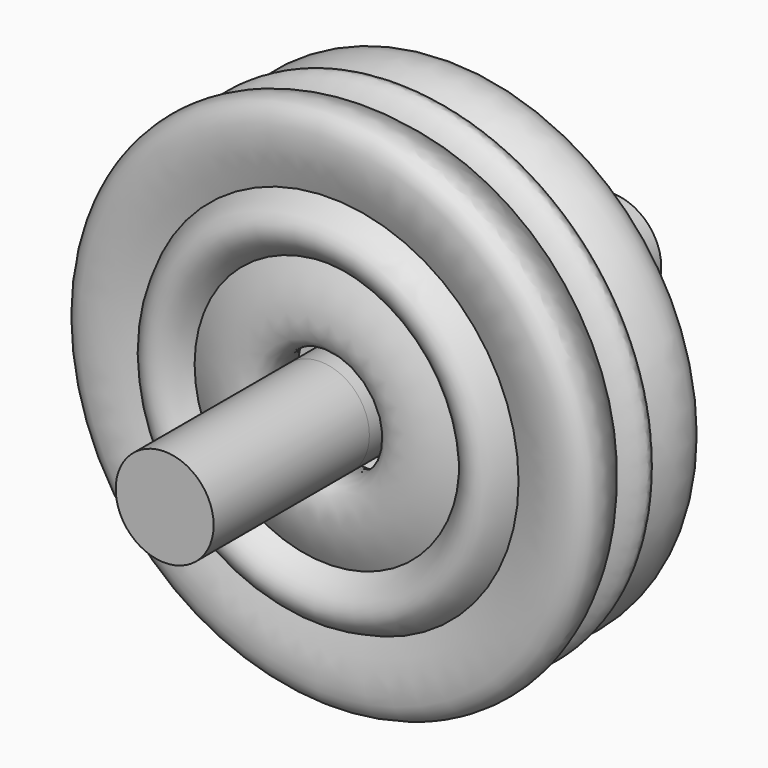
from build123d import *

# Parameters (mm, degrees)
F2_R     = 14.6925420484
F3_DEPTH = 58.42
F4_DEPTH = 109.474


with BuildPart() as f1:
    # F0 (on Top) → F1 (revolve)
    with BuildSketch(Plane.XY):
        with BuildLine():
            add(Edge.make_bspline(
                [(-71.8712651027, 31.8614490307), (-83.3065836709, 27.3728179466), (-72.0430607464, 21.1416296691)],
                knots=[2.5770953689, 2.5770953689, 2.5770953689, 3.7479627287, 3.7479627287, 3.7479627287], degree=2, weights=[1, 0.8334725297, 1]))
            add(Edge.make_bspline(
                [(-72.0430607464, 21.1416296691), (-100.5356487089, -11.8278282354), (-56.5454501701, 3.630881721)],
                knots=[2.2462588075, 2.2462588075, 2.2462588075, 4.1558846346, 4.1558846346, 4.1558846346], degree=2, weights=[1, 0.577761469, 1]))
            add(Edge.make_bspline(
                [(-56.5454501701, 3.630881721), (-49.7680659422, -13.9742831427), (-39.7717999025, 2.5237378227)],
                knots=[2.4286020288, 2.4286020288, 2.4286020288, 3.8850967672, 3.8850967672, 3.8850967672], degree=2, weights=[1, 0.7463420336, 1]))
            add(Edge.make_bspline(
                [(-39.7717999025, 2.5237378227), (-0.3442710462, -17.3316374866), (-20.398334335, 17.1769388044)],
                knots=[2.1156394125, 2.1156394125, 2.1156394125, 3.9900733101, 3.9900733101, 3.9900733101], degree=2, weights=[1, 0.5920332136, 1]))
            add(Edge.make_bspline(
                [(-20.398334335, 17.1769388044), (-8.9630157668, 21.6655698884), (-20.2265386914, 27.8967581659)],
                knots=[5.7186880225, 5.7186880225, 5.7186880225, 6.8895553823, 6.8895553823, 6.8895553823], degree=2, weights=[1, 0.8334725297, 1]))
            add(Edge.make_bspline(
                [(-20.2265386914, 27.8967581659), (8.2660492712, 60.8662160704), (-35.7241492676, 45.407506114)],
                knots=[5.3878514611, 5.3878514611, 5.3878514611, 7.2974772882, 7.2974772882, 7.2974772882], degree=2, weights=[1, 0.577761469, 1]))
            add(Edge.make_bspline(
                [(-35.7241492676, 45.407506114), (-42.5015334955, 63.0126709777), (-52.4977995352, 46.5146500123)],
                knots=[5.5701946824, 5.5701946824, 5.5701946824, 7.0266894208, 7.0266894208, 7.0266894208], degree=2, weights=[1, 0.7463420336, 1]))
            add(Edge.make_bspline(
                [(-52.4977995352, 46.5146500123), (-91.9253283915, 66.3700253217), (-71.8712651027, 31.8614490307)],
                knots=[5.2572320661, 5.2572320661, 5.2572320661, 7.1316659636, 7.1316659636, 7.1316659636], degree=2, weights=[1, 0.5920332136, 1]))
        make_face()
        with BuildLine():
            add(Edge.make_bspline(
                [(-35.4513308157, 14.5995784713), (-35.2474924167, 14.6077239265), (-35.0447237095, 14.6168431962)],
                knots=[5.0903981544, 5.0903981544, 5.0903981544, 5.1044162053, 5.1044162053, 5.1044162053], degree=2, weights=[1, 0.9999754369, 1]))
            add(Edge.make_bspline(
                [(-35.4513308157, 14.5995784713), (-35.2091586629, 14.7664512216), (-34.9683159674, 14.9345107081)],
                knots=[4.809950203, 4.809950203, 4.809950203, 4.825550509, 4.825550509, 4.825550509], degree=2, weights=[1, 0.999969579, 1]))
            add(Edge.make_bspline(
                [(-35.0447237095, 14.6168431962), (-35.0061358334, 14.7753407313), (-34.9683159674, 14.9345107081)],
                knots=[4.4048466978, 4.4048466978, 4.4048466978, 4.4165951178, 4.4165951178, 4.4165951178], degree=2, weights=[1, 0.9999827469, 1]))
        make_face(mode=Mode.SUBTRACT)
        with BuildLine():
            add(Edge.make_bspline(
                [(-32.6609249123, 32.2514424814), (-32.9915197308, 32.5672364869), (-33.3262307397, 32.8805100197)],
                knots=[4.5693262257, 4.5693262257, 4.5693262257, 4.5943539975, 4.5943539975, 4.5943539975], degree=2, weights=[1, 0.9999217024, 1]))
            add(Edge.make_bspline(
                [(-32.6609249123, 32.2514424814), (-32.980125514, 32.3237694032), (-33.302769695, 32.3940532737)],
                knots=[1.1468309259, 1.1468309259, 1.1468309259, 1.169712688, 1.169712688, 1.169712688], degree=2, weights=[1, 0.9999345538, 1]))
            add(Edge.make_bspline(
                [(-33.302769695, 32.3940532737), (-33.3135023847, 32.6379134957), (-33.3262307397, 32.8805100197)],
                knots=[5.0341285059, 5.0341285059, 5.0341285059, 5.0517725651, 5.0517725651, 5.0517725651], degree=2, weights=[1, 0.9999610861, 1]))
        make_face(mode=Mode.SUBTRACT)
    revolve(axis=Axis((0, 25.3257453442, 0), (0, -1, 0)))


with BuildPart() as f3:
    # F2 (on Front) → F3 (new body)
    with BuildSketch(Plane.XZ):
        Circle(F2_R)
    extrude(amount=F3_DEPTH)


with BuildPart() as f4:
    # F2 (on Front) → F4 (new body)
    with BuildSketch(Plane.XZ):
        Circle(F2_R)
    extrude(amount=-F4_DEPTH)


solid = Compound([f1.part, f3.part, f4.part])
